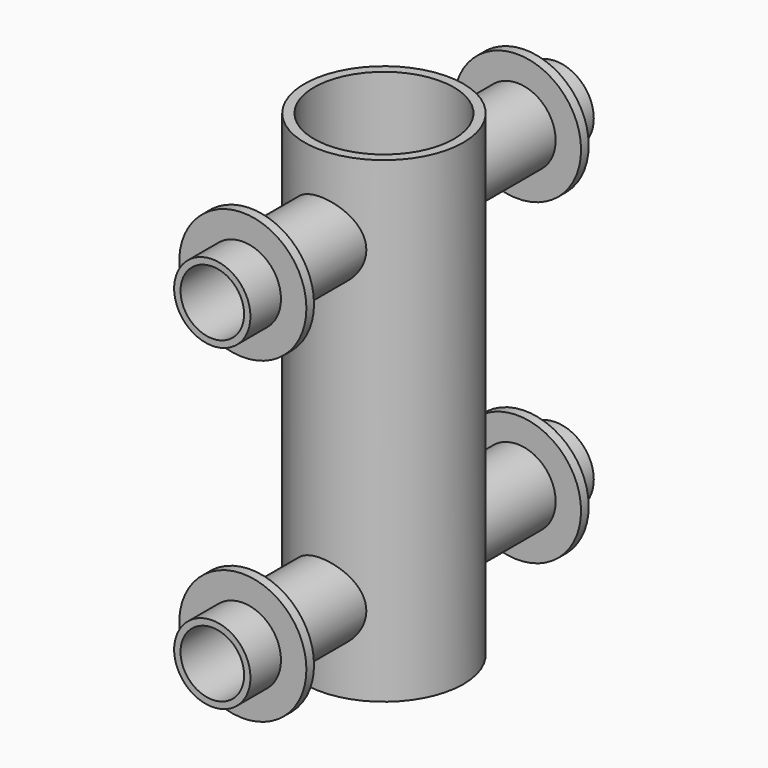
from build123d import *

# Parameters (mm, degrees)
F4_R     = 25
F4_R_2   = 22
F6_DEPTH = 150
F5_R     = 12
F5_R_2   = 10
F8_START = -12
F5_R_3   = 20
F8_DEPTH = 3


with BuildPart() as f6:
    # F4 (on Top) → F6 (new body, through all)
    with BuildSketch(Plane.XY):
        with Locations((0, -67.5)):
            Circle(F4_R)
        with Locations((0, -67.5)):
            Circle(F4_R_2, mode=Mode.SUBTRACT)
    extrude(amount=F6_DEPTH)

    # F5 (on offset) → F7 (join, up to the next surface of F6)
    with BuildSketch(Plane.XZ.offset(135)):
        with Locations((0, 125)):
            Circle(F5_R)
        with Locations((0, 125)):
            Circle(F5_R_2, mode=Mode.SUBTRACT)
        with Locations((0, 25)):
            Circle(F5_R)
        with Locations((0, 25)):
            Circle(F5_R_2, mode=Mode.SUBTRACT)
    extrude(until=Until.NEXT, dir=(0, 1, 0))

    # F5 (on offset) → F8 (join)
    with BuildSketch(Plane.XZ.offset(135).offset(F8_START)):
        with Locations((0, 125)):
            Circle(F5_R_3)
        with Locations((0, 125)):
            Circle(F5_R, mode=Mode.SUBTRACT)
        with Locations((0, 25)):
            Circle(F5_R_3)
        with Locations((0, 25)):
            Circle(F5_R, mode=Mode.SUBTRACT)
    extrude(amount=-F8_DEPTH)

    # F9: F6 across plane


with BuildPart() as f6_1:
    add(f6.part)
    add(f6.part.mirror(Plane.XZ.offset(67.5)))


solid = f6_1.part
